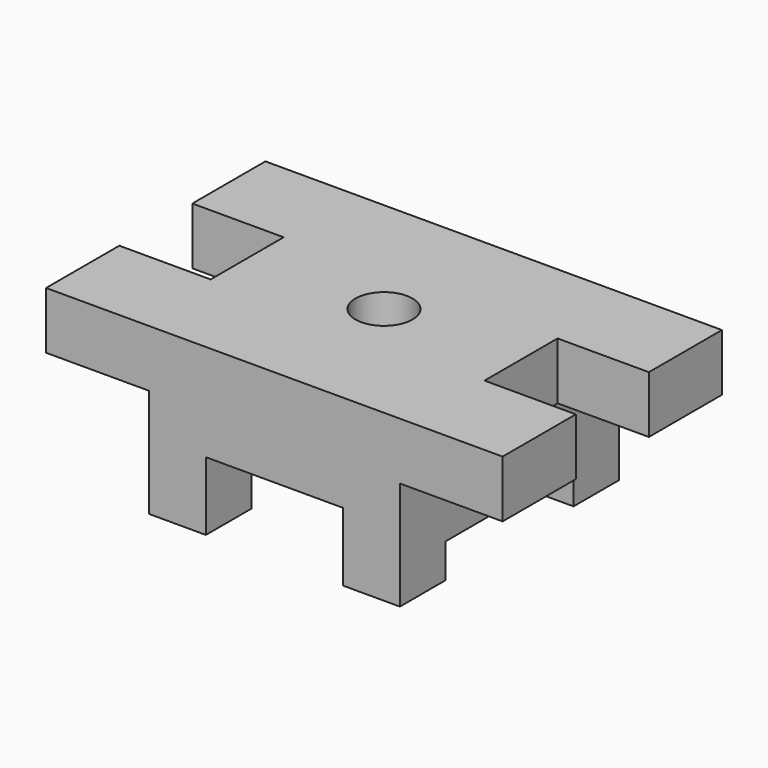
from build123d import *

# Parameters (mm, degrees)
F0_W     = 31.75
F0_H     = 31.75
F0_R     = 15.875
F0_H_2   = 89.018118
F1_DEPTH = 31.75
F2_DEPTH = 22.225
F3_DEPTH = 41.275
F4_DEPTH = 60.325


with BuildPart() as f1:
    # F0 (on Top) → F1 (new body)
    with BuildSketch(Plane.XY):
        Polygon((127, 25.459059), (127, 76.259059), (69.85, 76.259059), (69.85, 44.509059), (69.85, -44.509059), (69.85, -76.259059), (127, -76.259059), (127, -25.340941), (76.2, -25.340941), (76.2, 25.459059), align=None)
        with Locations((53.975, 60.384059)):
            Rectangle(F0_W, F0_H)
        Polygon((38.1, 44.509059), (38.1, 76.259059), (-38.1, 76.259059), (-38.1, 44.509059), (-38.1, -44.509059), (-38.1, -76.259059), (38.1, -76.259059), (38.1, -44.509059), align=None)
        Circle(F0_R, mode=Mode.SUBTRACT)
        with Locations((-53.975, 60.384059)):
            Rectangle(F0_W, F0_H)
        with Locations((53.975, -60.384059)):
            Rectangle(F0_W, F0_H)
        Polygon((-69.85, 44.509059), (-69.85, 76.259059), (-127, 76.259059), (-127, 25.459059), (-76.2, 25.459059), (-76.2, -25.340941), (-127, -25.340941), (-127, -76.259059), (-69.85, -76.259059), (-69.85, -44.509059), align=None)
        with Locations((-53.975, -60.384059)):
            Rectangle(F0_W, F0_H)
        with Locations((-53.975, 0)):
            Rectangle(F0_W, F0_H_2)
        with Locations((53.975, 0)):
            Rectangle(F0_W, F0_H_2)
    extrude(amount=F1_DEPTH)

    # F0 (on Top) → F2 (join)
    with BuildSketch(Plane.XY):
        with Locations((-53.975, -60.384059)):
            Rectangle(F0_W, F0_H)
        with Locations((-53.975, 0)):
            Rectangle(F0_W, F0_H_2)
        with Locations((-53.975, 60.384059)):
            Rectangle(F0_W, F0_H)
        Polygon((38.1, 44.509059), (38.1, 76.259059), (-38.1, 76.259059), (-38.1, 44.509059), (-38.1, -44.509059), (-38.1, -76.259059), (38.1, -76.259059), (38.1, -44.509059), align=None)
        Circle(F0_R, mode=Mode.SUBTRACT)
        with Locations((53.975, 60.384059)):
            Rectangle(F0_W, F0_H)
        with Locations((53.975, 0)):
            Rectangle(F0_W, F0_H_2)
        with Locations((53.975, -60.384059)):
            Rectangle(F0_W, F0_H)
    extrude(amount=-F2_DEPTH)

    # F0 (on Top) → F3 (join)
    with BuildSketch(Plane.XY):
        with Locations((-53.975, 60.384059)):
            Rectangle(F0_W, F0_H)
        with Locations((-53.975, -60.384059)):
            Rectangle(F0_W, F0_H)
        with Locations((53.975, -60.384059)):
            Rectangle(F0_W, F0_H)
        with Locations((53.975, 60.384059)):
            Rectangle(F0_W, F0_H)
        with Locations((-53.975, 0)):
            Rectangle(F0_W, F0_H_2)
        with Locations((53.975, 0)):
            Rectangle(F0_W, F0_H_2)
    extrude(amount=-F3_DEPTH)

    # F0 (on Top) → F4 (join)
    with BuildSketch(Plane.XY):
        with Locations((-53.975, 60.384059)):
            Rectangle(F0_W, F0_H)
        with Locations((-53.975, -60.384059)):
            Rectangle(F0_W, F0_H)
        with Locations((53.975, -60.384059)):
            Rectangle(F0_W, F0_H)
        with Locations((53.975, 60.384059)):
            Rectangle(F0_W, F0_H)
    extrude(amount=-F4_DEPTH)


solid = f1.part
